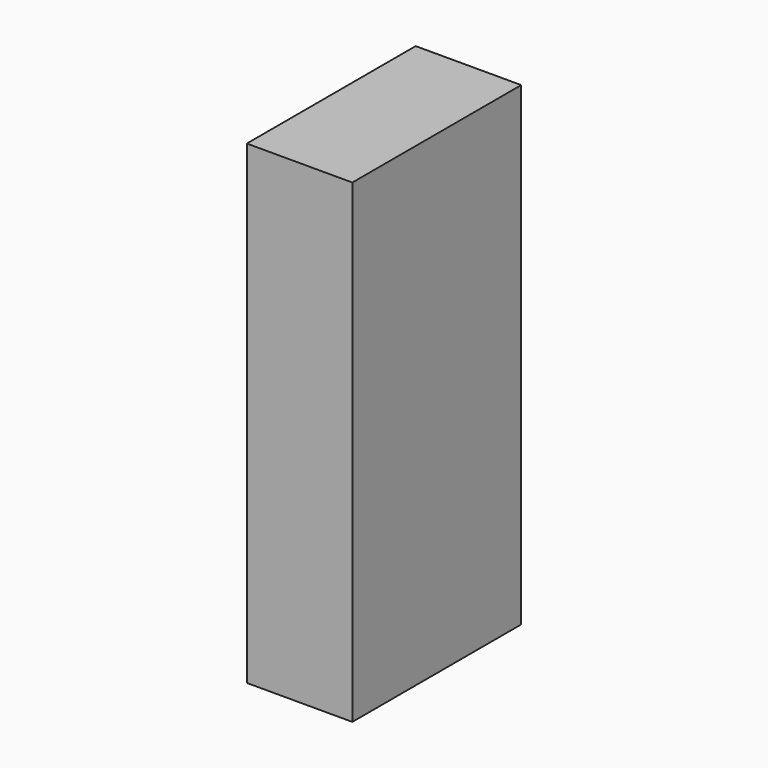
from build123d import *

# Parameters (mm, degrees)
BOX_W     = 20
BOX_H     = 40
BOX_DEPTH = 90


with BuildPart() as part:
    # Box → Box (new body)
    with BuildSketch(Plane.XY):
        with Locations((10, 20)):
            Rectangle(BOX_W, BOX_H)
    extrude(amount=BOX_DEPTH)


solid = part.part
